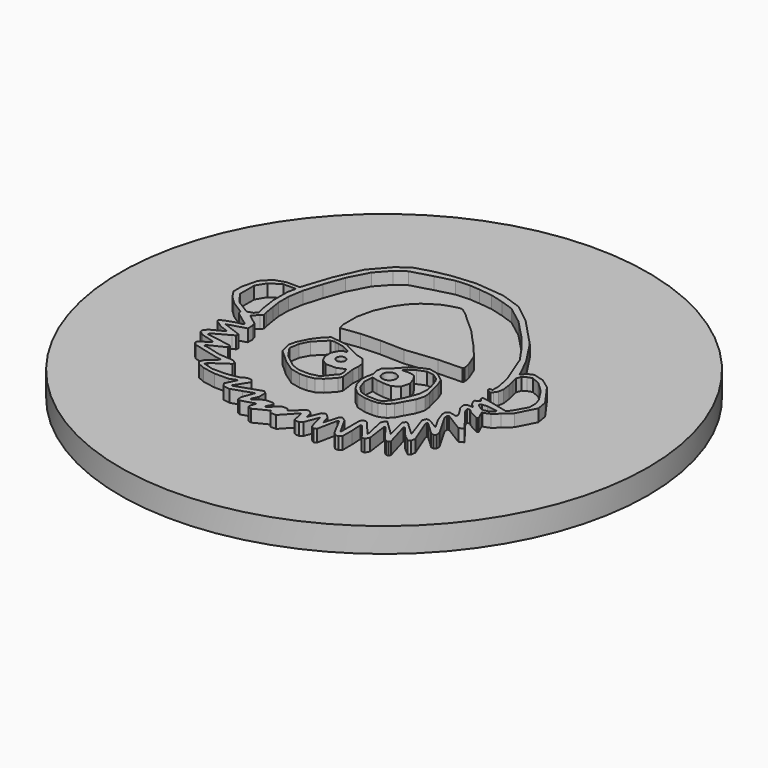
from build123d import *

# Parameters (mm, degrees)
F0_W     = 44
F0_H     = 60
F1_DEPTH = 2
F2_R     = 0.357844293
F2_R_2   = 0.5523242162
F3_DEPTH = 3
F4_W     = 44
F4_H     = 60
F4_R     = 21.5
F5_DEPTH = 2.001


with BuildPart() as f1:
    # F0 (on Top) → F1 (new body)
    with BuildSketch(Plane.XY):
        Rectangle(F0_W, F0_H)
    extrude(amount=-F1_DEPTH)

    # F2 (on face) → F3 (join)
    with BuildSketch(Plane(origin=(0, 0, -2), x_dir=(1, 0, 0), z_dir=(0, 0, -1))):
        Polygon((-9.6811386366, 2.1324123861), (-9.7471833769, 2.0156995067), (-10.8892577309, 1.1822938592), (-10.9818582032, 0.9044919768), (-12.0004652608, 0.2562877395), (-12.617802674, -0.3301828495), (-13.0499391426, -0.9783870867), (-13.0499391426, -1.8117925013), (-12.7412699703, -3.0773343845), (-12.062198909, -3.7872721535), (-11.2287937273, -4.0650741524), (-10.1175861974, -4.0650741524), (-9.3459137324, -6.4109561593), (-8.4199080784, -8.5099033407), (-7.1852332521, -9.9297795771), (-6.2592275981, -10.6397174625), (-4.8702177201, -11.040987107), (-3.545731267, -11.3060084498), (-1.6693715779, -11.4746700368), (0.7129730466, -11.2427604711), (2.3995885085, -10.6735277316), (3.9807907697, -9.4296486444), (6.1944732833, -7.0894695912), (7.5016003493, -5.0866135519), (8.1340815332, -3.8005694608), (8.3238254692, -3.3789156099), (8.640066294, -3.7584040641), (9.0828021448, -3.9481481165), (9.9471933599, -3.7162386673), (10.7694180142, -3.1259233459), (12.0132971015, -1.3760594978), (12.160875408, -0.5116687483), (11.4018996637, 0.9641194389), (10.7694180142, 1.5474002482), (10.3031197022, 1.9678397709), (9.8308367114, 2.1567529672), (9.6891518142, 2.1567529672), (10.0386417862, 2.9312980966), (9.9303027032, 2.9801828183), (9.1129658203, 2.5534717039), (8.9051607456, 2.364558042), (8.6595728453, 2.364558042), (8.8107041474, 2.7896131994), (9.462454861, 3.5830497415), (10.1991682704, 4.5858652936), (9.9075115517, 4.8001294374), (8.3909477498, 3.8625768991), (8.2630007919, 3.9146760152), (8.3114724066, 4.2363557638), (9.3717803638, 6.0832792566), (9.3717803638, 6.3862245203), (9.2313723098, 6.4988782303), (8.9979428258, 6.4475232409), (7.9778558966, 5.4881278099), (7.8774807434, 5.4881278099), (7.8774807434, 5.6445257412), (8.6750514265, 7.6640968816), (8.6171715911, 8.0074475752), (8.4281093832, 8.1341465608), (7.9267952051, 7.7483676047), (7.1940999869, 6.8841384397), (7.090097798, 6.8841384397), (7.672471499, 8.8861345918), (7.5939828921, 9.0432189078), (7.3940968532, 9.0432189078), (7.1711852606, 8.8796488614), (6.1962022837, 7.5985904456), (6.0876137968, 7.5985904456), (6.3236114029, 9.3229919345), (6.1475690845, 9.6560682775), (5.9015439283, 9.6560682775), (4.9026301522, 8.3634465606), (4.7724056449, 8.3634465606), (4.8222178984, 9.2931663291), (4.8222178984, 10.2712757559), (4.6359305661, 10.4354055272), (4.3598218281, 10.4354055272), (4.1186190601, 10.1967233838), (3.3531757463, 8.7603902118), (3.2591275775, 8.8105098799), (2.9207482394, 10.4890329437), (2.7069782764, 10.5879095988), (2.4452843163, 10.3973982529), (2.1101527773, 9.1701488615), (1.6735672643, 10.2885340945), (1.4441688303, 10.4631237661), (1.2149934582, 10.4631237661), (1.0255175102, 10.3861273871), (0.8262249566, 9.4212837191), (-0.2897780405, 10.6239108042), (-0.7608599453, 10.6239108042), (-0.9049367118, 10.4313002573), (-0.9049367118, 10.3461010055), (-2.1005544886, 10.948662986), (-2.3867704049, 10.8450235472), (-2.3867704049, 10.6323076085), (-2.2414654568, 10.1716167898), (-3.3704419229, 10.5176450358), (-3.5639223252, 10.4059217171), (-3.5639223252, 10.0863756285), (-3.2087377813, 9.1081972839), (-4.0098609943, 9.3832345353), (-4.8675350454, 9.6710486011), (-5.4326247964, 9.5840109186), (-5.6035983917, 9.2803122149), (-5.169711968, 8.376974021), (-5.7948231306, 8.6137720988), (-6.9145746138, 8.6137720988), (-7.9517806489, 8.4372045146), (-8.5224606637, 8.1819811509), (-8.7377293576, 7.9008847148), (-8.5668949951, 7.5316087947), (-7.9260575194, 6.9935772241), (-7.7981608529, 6.8461255775), (-8.3810886909, 6.7504200758), (-10.3367049787, 6.2598999263), (-10.5549064074, 6.0500571178), (-10.5549064074, 5.8563578547), (-9.7611075808, 5.3409117879), (-9.7611075808, 5.227475767), (-10.8631145749, 4.9092828901), (-11.2414420191, 4.6405134396), (-11.2414420191, 4.4132418604), (-10.997748429, 4.1265556262), (-10.0314090569, 3.6239431844), (-9.9967126344, 3.5253394068), (-10.6227753711, 3.3050421954), (-11.2798376549, 2.8761963965), (-11.3652781192, 2.6997731672), (-10.9869138407, 2.5165341472), (-10.1855857838, 2.2471517929), (-9.7918505389, 2.1701709972), align=None)
        Polygon((-11.8347066064, -0.0546939066), (-10.6582170893, 0.6736385309), (-10.2101382409, 0.543150925), (-9.9734491278, 0.2751311892), (-10.1394992862, -0.4149061954), (-10.311956944, -1.6149355891), (-10.311956944, -3.0754079438), (-10.1549517904, -3.7299769559), (-11.1933075432, -3.7299769559), (-12.0524889399, -3.1898821565), (-12.5144417007, -2.4237070559), (-12.5144417007, -0.9769142001), align=None, mode=Mode.SUBTRACT)
        Polygon((-9.6937878598, 0.4931300552), (-10.1176634971, 0.9792473772), (-9.2627754975, 1.6273263515), (-9.1499681194, 1.9724833452), (-9.1499681194, 2.4366093473), (-10.6312506441, 2.8707705112), (-9.0894684736, 3.4423790545), (-9.1238352079, 3.6475838767), (-9.3464399297, 3.7835169257), (-10.5905145212, 4.463810179), (-10.6200263445, 4.6405134396), (-8.6197680403, 4.9745835037), (-8.5226338897, 5.0510264606), (-8.5226338897, 5.2580548124), (-9.8172570188, 5.8963702665), (-9.8172570188, 6.0173770086), (-9.648694152, 6.0173770086), (-8.3527541328, 6.3551891268), (-7.1817575563, 6.4377126889), (-6.8107284215, 6.6457878472), (-6.8596824613, 6.8582765431), (-8.1640244071, 7.7533511118), (-8.2634514738, 7.9552134172), (-7.4836783651, 8.1916696997), (-6.346583793, 8.1916696997), (-5.3565268945, 8.0194942327), (-4.9382550251, 7.7936010109), (-4.5628421549, 7.7936010109), (-4.3369517271, 8.0701404856), (-5.0904638674, 9.2606529267), (-2.9450179618, 8.5240866662), (-2.7096133754, 8.7048610346), (-2.7096133754, 9.3750882567), (-2.9508193081, 9.8507579651), (-2.8905677218, 9.9403954716), (-2.1376390551, 9.4342998834), (-1.4435723033, 9.4342998834), (-1.2967243865, 9.6168400393), (-1.5908878873, 10.1084744622), (-1.5112013398, 10.1936565385), (-0.7485554279, 9.4802127927), (-0.279658807, 9.4802127927), (-0.0998447258, 9.6823958353), (0.8200396942, 8.8642848329), (1.0260668741, 8.8642848329), (1.2824203977, 9.0887000458), (1.4022274799, 9.612909858), (1.8246401259, 8.6198769183), (2.1144498996, 8.5055039869), (2.4744996726, 8.8579695345), (2.6984580718, 9.5770213426), (3.0389191042, 8.366646585), (3.2350654173, 8.2844294281), (3.5537605099, 8.4725649701), (4.359332418, 9.9108008341), (4.359332418, 7.9430829407), (4.5232465882, 7.7338855387), (4.7736736405, 7.7338855387), (5.9093158152, 9.0623408229), (5.5358307827, 7.304012184), (5.6418544072, 7.0369023503), (5.8105774615, 6.9277075724), (7.0305588115, 8.106750776), (6.6288686748, 6.4331547962), (6.7661544699, 6.2322163628), (6.9357497077, 6.250894037), (8.067529222, 7.2978663863), (7.402281316, 5.3815072076), (7.5439359452, 5.0908609898), (7.8008599039, 5.0908609898), (8.6926249732, 5.6286348736), (8.149507029, 4.6825915248), (7.8882235493, 3.946315837), (7.8882235493, 3.6008407967), (8.1064789947, 3.4490938903), (8.7075890433, 3.5883973957), (8.7836138364, 3.4534739004), (8.6470130291, 3.1674982653), (8.2504260745, 2.5546917365), (8.1666908618, 2.1225394354), (8.3157285508, 1.9586410978), (8.8119018283, 1.9586410978), (8.5138357635, 1.6896914364), (8.3411257174, 1.3701593177), (8.3411257174, 1.18566385), (8.5192841204, 1.1169792989), (8.6665475201, 0.952315391), (8.49342062, 0.7974833079), (8.5024708342, 0.5861538136), (8.6487853359, 0.5924197519), (9.3113943394, 0.7234130659), (10.1321950015, 0.9217228414), (10.7449503075, 1.0762329818), (11.0087418388, 0.8320360118), (11.6240145098, -0.2546558483), (11.6240145098, -0.9027264408), (11.4705390688, -1.406956357), (10.7823009994, -2.4765551883), (9.969228452, -3.2344389568), (9.2784916442, -3.5414152174), (8.9292577859, -3.4151164676), (8.6111654918, -3.2354950766), (8.4791337531, -2.8508933122), (8.5589434411, -2.4301965116), (8.7132021244, -1.811010656), (8.8021676447, -1.1758097774), (8.7283621933, -0.7151771663), (8.5597173702, -0.44622052), (8.3984812181, -0.3201920866), (8.25052852, -0.3436767823), (8.0590336974, -0.5238476536), (8.0677480828, -0.6443878031), (8.1913802232, -0.6624023757), (8.3055911045, -0.6624023757), (8.3055911045, -1.3114662236), (8.0527090858, -2.4975506915), (7.6325238142, -3.5370942299), (7.0796497557, -4.9638704316), (6.1944732833, -6.2491526572), (5.312960634, -7.3668678618), (3.703534875, -9.0546232044), (2.2311418243, -10.1739579207), (1.1584582198, -10.5360417022), (0.0862761762, -10.8244420356), (-1.000251873, -10.9462818457), (-1.826402925, -11.0079354002), (-2.9340576921, -10.9474110744), (-4.4084335286, -10.5683478853), (-6.077391522, -10.09423438), (-6.8883476388, -9.5192218526), (-7.8234509174, -8.4778749245), (-8.6529007722, -6.879603616), (-9.2196366359, -5.2969368501), (-9.6590569783, -3.8082918712), (-9.8561974783, -2.6054381254), (-9.8561974783, -1.5736530862), (-9.7505696658, -0.874431464), (-9.6112456713, -0.0189497462), (-9.5169120077, 0.3287469642), align=None, mode=Mode.SUBTRACT)
        Polygon((9.0686462923, 1.6346473971), (9.3927164953, 1.8349903309), (9.6084843781, 1.8763787718), (10.0205191802, 1.7774602072), (10.2603887599, 1.6039529489), (10.3359162267, 1.4321723626), (10.0396559965, 1.3698016898), (9.4656418469, 1.2812454858), (9.0313726496, 1.3331038551), (8.8715008851, 1.4548384258), align=None, mode=Mode.SUBTRACT)
        Polygon((-3.08488678, -1.4646087168), (-4.6037812326, -1.2648274517), (-4.7425673884, -1.7706506281), (-4.7425673884, -3.1534895627), (-4.4474764336, -4.4343602006), (-3.9069731329, -5.6169336115), (-3.3245663699, -6.4637139533), (-2.6997842754, -7.0834534636), (-2.0873911754, -7.4888061593), (-1.6336825604, -7.7646316423), (-1.2732378282, -7.906329711), (-0.7474080587, -8.0649796801), (-0.3177724475, -8.1722507114), (-0.0998447258, -8.1334960508), (0.442911677, -7.7334629698), (1.0701836245, -7.1422411223), (1.7642189821, -6.5339708163), (2.2367739191, -6.093273165), (2.7935302742, -5.4740801518), (3.5090838019, -4.7051869427), (4.4945446234, -3.5321395938), (4.9083121512, -2.475909316), (5.0047319773, -1.9495849359), (4.9328771811, -1.8163704174), (2.9837300926, -1.7608971196), (0.4239182845, -1.4790735534), (-1.5184006961, -1.5261405009), align=None)
        Polygon((-2.6640719343, 5.2609009342), (-3.4858672489, 5.0787128181), (-4.4431006145, 4.4244372891), (-5.5072647128, 3.4580988483), (-5.7230670545, 2.5492788897), (-5.5934376624, 1.9974674703), (-5.1705375854, 1.1388779291), (-4.7456984949, 0.5649829888), (-4.2631798033, 0.0664059677), (-2.8881833816, 0.2319857084), (-1.5227030572, 0.9486934775), (-0.8736338541, 1.1221918882), (-0.4413596371, 1.6396267944), (-0.3616516961, 2.1512763248), (-0.4154522803, 2.6453476073), (-0.2542590273, 3.8729974673), (-0.4193596733, 4.1818100632), (-1.0262609185, 4.833572884), (-1.494362562, 5.1507748337), (-2.0683777593, 5.2609009342), align=None)
        Polygon((-0.6082540103, 3.2989944936), (-0.7466862635, 2.9205059306), (-1.3877014471, 3.1666591437), (-2.2236641571, 3.1754443095), (-2.70135138, 2.8525678114), (-2.9241952189, 2.3552578547), (-2.9231188428, 1.7462953599), (-2.711810831, 1.3172881351), (-2.4260442779, 1.0800732904), (-2.2641473524, 1.0679623717), (-2.201946646, 0.9944428363), (-2.2392645087, 0.8855358371), (-2.4699340184, 0.7734567532), (-2.8785758579, 0.5864126214), (-3.3183318638, 0.4909088508), (-3.6845975165, 0.4166875639), (-3.9925749488, 0.4615619452), (-4.906035455, 1.3663716288), (-5.2618286181, 2.0623373472), (-5.39726015, 2.8913098992), (-4.7850533929, 3.7852901639), (-3.776367249, 4.5866243215), (-3.1056822818, 4.8606305988), (-2.1545623504, 4.8818628908), (-1.4399747206, 4.6973930345), (-0.9944384992, 4.1358073847), (-0.5952870315, 3.6683933483), align=None, mode=Mode.SUBTRACT)
        with Locations((-1.8760383437, 2.0475735561)):
            Circle(F2_R, mode=Mode.SUBTRACT)
        Polygon((0.8980258526, 2.8120804251), (1.0038243299, 2.3735103802), (0.8837890737, 1.9052069308), (0.9531369824, 1.4389253826), (1.3658934431, 1.1095040151), (1.6418882105, 0.8136270241), (2.169758819, 0.2301524998), (2.855902344, -0.1864234312), (3.4063782468, -0.4089308298), (3.9631519858, -0.2983940161), (4.3230038527, -0.1135469741), (4.8860758934, 0.330034052), (5.1279333811, 0.9375264542), (5.2694799769, 1.6062728734), (5.4467930849, 2.2024031402), (5.5068061147, 2.7315387176), (5.3059012089, 3.4038846986), (4.887929691, 4.150752318), (4.6135760303, 4.6874148445), (4.2453557644, 5.0484755681), (3.7432532217, 5.2744879992), (3.2519805636, 5.3157716663), (2.6513541043, 5.2739236177), (1.9328801818, 5.0848185689), (1.3818677207, 4.6370973484), (1.0273665348, 4.0548689337), (0.8493690793, 3.3584119425), align=None)
        with Locations((2.0057501197, 1.9755506561)):
            Circle(F2_R_2, mode=Mode.SUBTRACT)
        Polygon((1.7057810137, 2.8674829425), (1.2767119724, 2.7515900926), (1.2065122528, 3.5110491933), (1.4829599922, 4.2907002987), (1.9652746077, 4.7870421456), (2.6120846551, 4.9726826743), (3.4763126559, 4.9936253251), (3.8407096099, 4.8963850037), (4.2424756493, 4.3850805284), (4.6192990076, 3.6538563342), (5.0075189601, 2.6289377035), (5.0525549259, 1.9647808419), (4.9546584878, 1.4088757941), (4.722709341, 0.6779249431), (4.5295390691, 0.3573748888), (4.0540420841, 0.037034382), (3.469526574, -0.0340218051), (2.8097869754, 0.2293217601), (2.3550847936, 0.5235959449), (2.1078680102, 0.8019040012), (2.7499986272, 0.7979128183), (3.1603542547, 0.9011271083), (3.4567003995, 1.3336342433), (3.6546672154, 1.9519011163), (3.4708003904, 2.5907236756), (2.9410671368, 2.9480032296), (2.2767626606, 2.9477918194), align=None, mode=Mode.SUBTRACT)
    extrude(amount=-F3_DEPTH)

    # F4 (on face) → F5 (cut, through all)
    with BuildSketch(Plane.XY):
        Rectangle(F4_W, F4_H)
        Circle(F4_R, mode=Mode.SUBTRACT)
    extrude(amount=-F5_DEPTH, mode=Mode.SUBTRACT)


solid = f1.part
